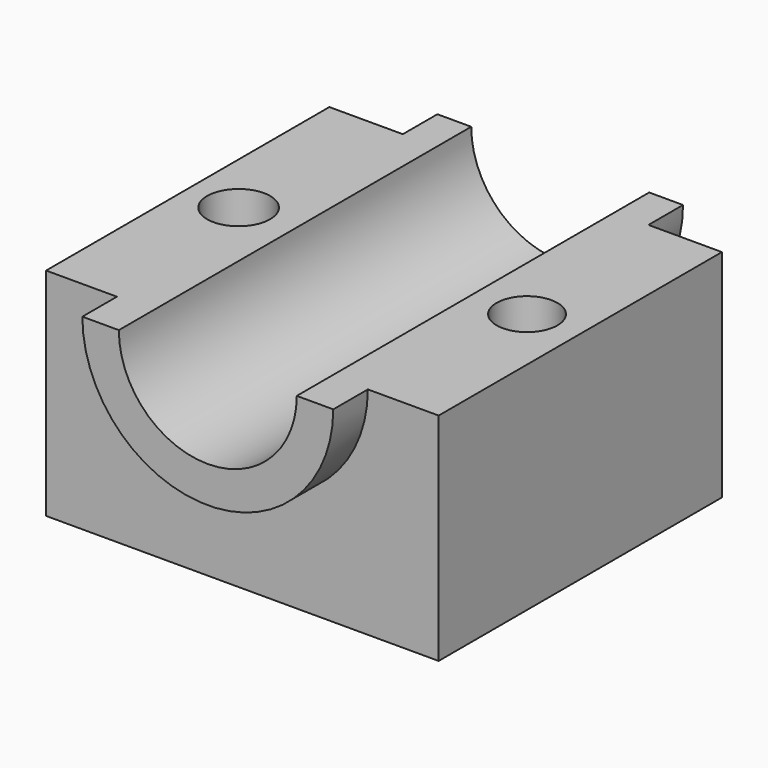
from build123d import *

# Parameters (mm, degrees)
F0_W     = 92.31437
F0_H     = 83.259412
F1_DEPTH = 50.8
F4_DEPTH = 127
F5_DEPTH = 10.16
F7_DEPTH = 10.16
F8_R     = 7.158054
F8_R_2   = 7.413985
F9_DEPTH = 152.4


with BuildPart() as f1:
    # F0 (on Top) → F1 (new body)
    with BuildSketch(Plane.XY):
        Rectangle(F0_W, F0_H)
    extrude(amount=F1_DEPTH)

    # F2 (on face) → F4 (cut)
    with BuildSketch(Plane.XZ.offset(41.629706)):
        with BuildLine():
            Line((20.920252, 50.8), (-20.920252, 50.8))
            ThreePointArc((-20.920252, 50.8), (0, 29.879748), (20.920252, 50.8))
        make_face()
    extrude(amount=-F4_DEPTH, mode=Mode.SUBTRACT)

    # F3 (on face) → F5 (join)
    with BuildSketch(Plane.XZ.offset(41.629706)):
        with BuildLine():
            Line((-20.920252, 50.8), (-29.502509, 50.8))
            ThreePointArc((-29.502509, 50.8), (0, 21.343507), (29.502509, 50.8))
            Line((29.502509, 50.8), (20.920252, 50.8))
            ThreePointArc((20.920252, 50.8), (0, 29.879748), (-20.920252, 50.8))
        make_face()
    extrude(amount=F5_DEPTH)

    # F6 (on face) → F7 (join)
    with BuildSketch(Plane(origin=(0, 41.629706, 0), x_dir=(-1, 0, 0), z_dir=(0, 1, 0))):
        with BuildLine():
            Line((-20.920252, 50.8), (-28.88168, 50.8))
            ThreePointArc((-28.88168, 50.8), (0, 21.91832), (28.88168, 50.8))
            Line((28.88168, 50.8), (20.920252, 50.8))
            ThreePointArc((20.920252, 50.8), (0, 29.879748), (-20.920252, 50.8))
        make_face()
    extrude(amount=F7_DEPTH)

    # F8 (on face) → F9 (cut)
    with BuildSketch(Plane.XY.offset(50.8)):
        with Locations((33.635359, 0)):
            Circle(F8_R)
        with Locations((-34.185261, 0)):
            Circle(F8_R_2)
    extrude(amount=-F9_DEPTH, mode=Mode.SUBTRACT)


solid = f1.part
